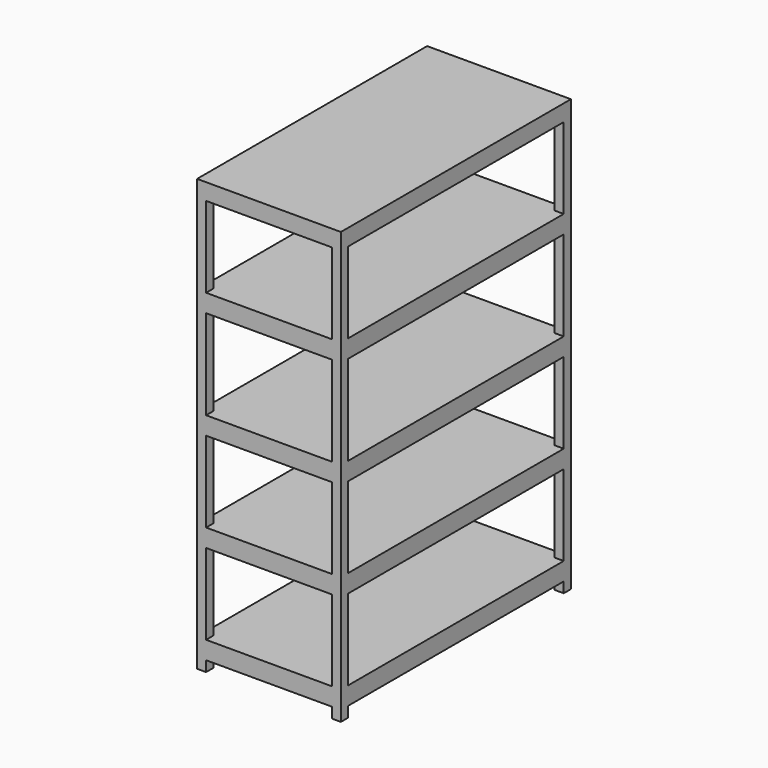
from build123d import *

# Parameters (mm, degrees)
F0_W     = 609.6
F0_H     = 1219.2
F1_DEPTH = 1828.8
F2_W     = 1143
F2_H     = 44.45
F2_H_2   = 342.9
F2_H_3   = 381
F3_DEPTH = 2656.84
F4_W     = 533.4
F4_H     = 44.45
F4_H_2   = 342.9
F4_H_3   = 381
F5_DEPTH = 1470.66


with BuildPart() as f1:
    # F0 (on Top) → F1 (new body)
    with BuildSketch(Plane.XY):
        Rectangle(F0_W, F0_H)
    extrude(amount=F1_DEPTH)

    # F2 (on face) → F3 (cut)
    with BuildSketch(Plane.YZ.offset(304.8)):
        with Locations((0, 22.225)):
            Rectangle(F2_W, F2_H)
        with Locations((0, 292.1)):
            Rectangle(F2_W, F2_H_2)
        with Locations((0, 711.2)):
            Rectangle(F2_W, F2_H_2)
        with Locations((0, 1149.35)):
            Rectangle(F2_W, F2_H_3)
        with Locations((0, 1587.5)):
            Rectangle(F2_W, F2_H_2)
    extrude(amount=-F3_DEPTH, mode=Mode.SUBTRACT)

    # F4 (on face) → F5 (cut)
    with BuildSketch(Plane.XZ.offset(609.6)):
        with Locations((0, 22.225)):
            Rectangle(F4_W, F4_H)
        with Locations((0, 711.2)):
            Rectangle(F4_W, F4_H_2)
        with Locations((0, 292.1)):
            Rectangle(F4_W, F4_H_2)
        with Locations((0, 1149.35)):
            Rectangle(F4_W, F4_H_3)
        with Locations((0, 1587.5)):
            Rectangle(F4_W, F4_H_2)
    extrude(amount=-F5_DEPTH, mode=Mode.SUBTRACT)


solid = f1.part
